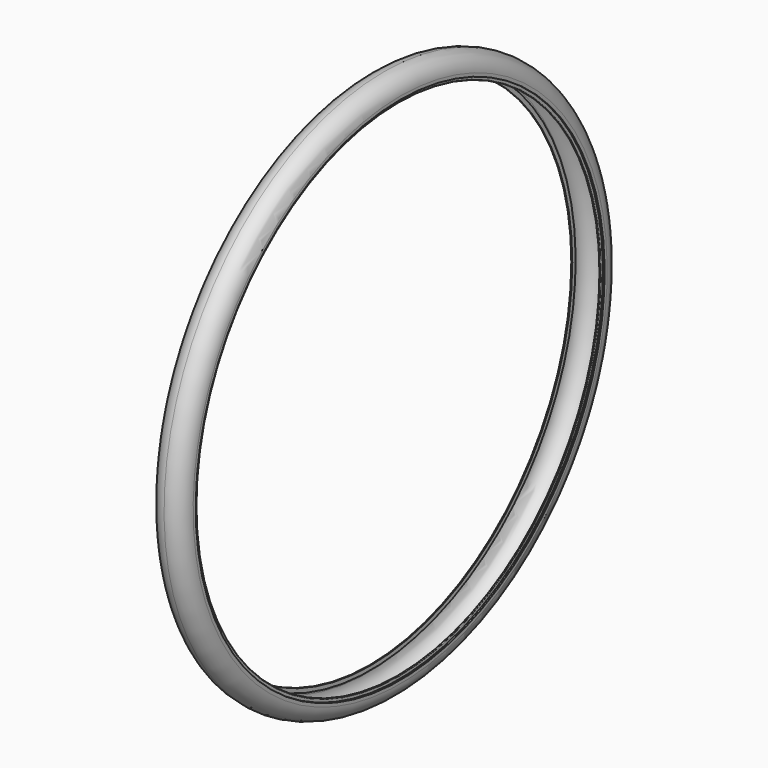
from build123d import *

# Parameters (mm, degrees)
F4_R = 1.5


with BuildPart() as f3:
    # F0 (on Front) → F3 (revolve)
    with BuildSketch(Plane.XZ):
        with BuildLine():
            ThreePointArc((0, 50), (-35.3553390593, 35.3553390593), (-50, 0))
            Line((-50, 0), (-50, -10))
            Line((-50, -10), (-45, -10))
            Line((-45, -10), (-45, -20))
            Line((-45, -20), (-42, -20))
            Line((-42, -20), (-42, -7))
            Line((-42, -7), (-47, -7))
            Line((-47, -7), (-47, 0))
            ThreePointArc((-47, 0), (-33.2340187158, 33.2340187158), (0, 47))
            Line((0, 47), (0, 50))
        make_face()
        with BuildLine():
            ThreePointArc((50, 0), (35.3553390593, 35.3553390593), (0, 50))
            Line((0, 50), (0, 47))
            ThreePointArc((0, 47), (33.2340187158, 33.2340187158), (47, 0))
            Line((47, 0), (47, -7))
            Line((47, -7), (42, -7))
            Line((42, -7), (42, -20))
            Line((42, -20), (45, -20))
            Line((45, -20), (45, -10))
            Line((45, -10), (50, -10))
            Line((50, -10), (50, 0))
        make_face()
    revolve(axis=Axis((11.4029198885, 0, -800), (1, 0, 0)))

    # F4
    f4_edges = [f3.edges().sort_by_distance(p)[0] for p in [
        (45, 0, -1580),
    ]]
    fillet(f4_edges, radius=F4_R)


solid = f3.part
